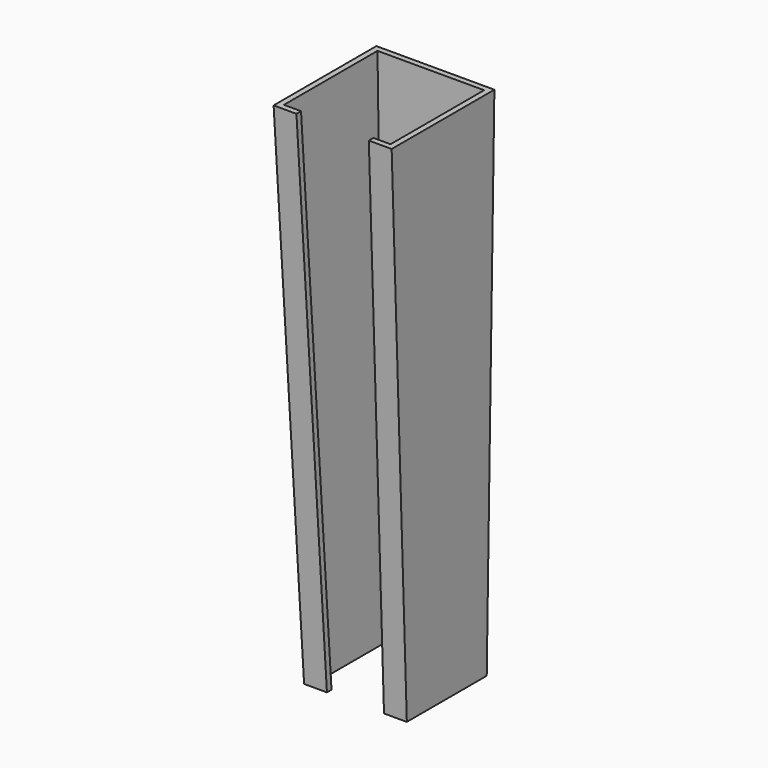
from build123d import *

# Parameters (mm, degrees)
F1_DEPTH      = 50
F3_DEPTH      = 20.6839429735
F3_DEPTH_BACK = 20.6839429735
F4_T          = -2
F6_DEPTH      = 25


with BuildPart() as f1:
    # F0 (on Front) → F1 (new body)
    with BuildSketch(Plane.XZ):
        Polygon((-20.175, 147.3), (-18, 0), (0, 0), (0, 147.3), align=None)
        Polygon((0, 147.3), (0, 0), (18, 0), (20.175, 147.3), align=None)
        Polygon((0, 181.7), (0, 147.3), (20.175, 147.3), (20.6829429735, 181.7), align=None)
        Polygon((-20.6829429735, 181.7), (-20.175, 147.3), (0, 147.3), (0, 181.7), align=None)
    extrude(amount=F1_DEPTH)

    # F2 (on Right) → F3 (cut, two sides)
    with BuildSketch(Plane.YZ) as f3_sk:
        Polygon((-45, 181.7), (-50, 181.7), (-50, 0), (-35, 0), align=None)
    extrude(amount=-F3_DEPTH, mode=Mode.SUBTRACT)
    extrude(f3_sk.sketch, amount=F3_DEPTH_BACK, mode=Mode.SUBTRACT)

    # F4
    f4_openings = [f1.faces().sort_by_distance(p)[0] for p in [
        (0, -22.5, 181.7),
        (0, -17.5, 0),
    ]]
    offset(amount=F4_T, openings=f4_openings)

    # F5 (on face) → F6 (cut)
    with BuildSketch(Plane(origin=(0, -34.8943073645, -1.9204351879), x_dir=(1, 0, 0), z_dir=(0, -0.9984889636, -0.0549526122))):
        Polygon((12.6829429735, 183.8983122333), (-12.6829429735, 183.8983122333), (-10, 1.9233414268), (10, 1.9233414268), align=None)
        Polygon((10, 1.9233414268), (-10, 1.9233414268), (-9.9168600221, -3.7157627956), (9.9168600221, -3.7157627956), align=None)
    extrude(amount=-F6_DEPTH, mode=Mode.SUBTRACT)


solid = f1.part
